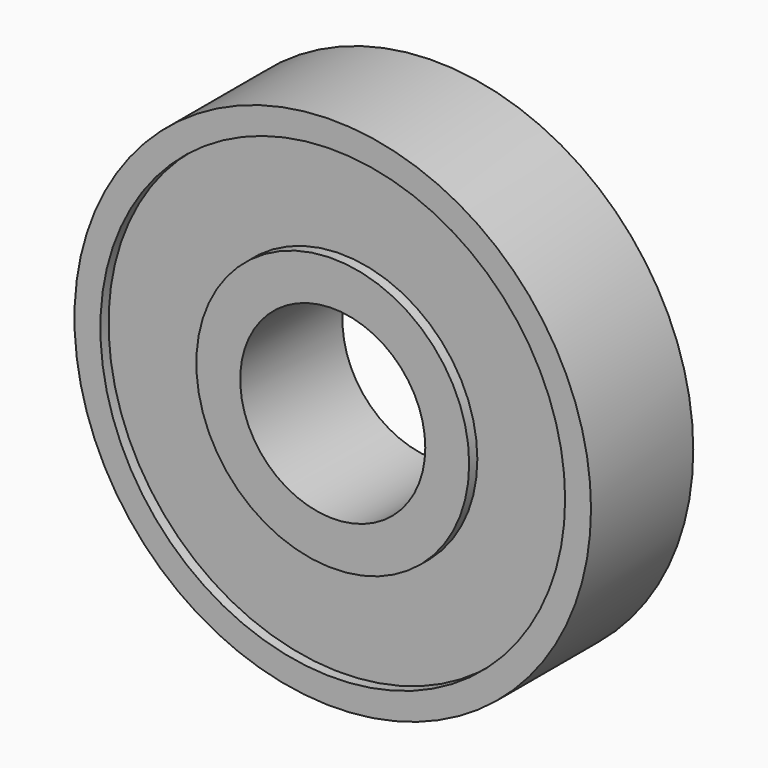
from build123d import *

# Parameters (mm, degrees)
F0_R     = 12.831842
F0_R_2   = 11.545421
F1_DEPTH = 6.35
F2_R     = 11.571254
F2_R_2   = 6.76949
F3_DEPTH = 5.842
F4_R     = 6.77814
F4_R_2   = 4.597615
F5_DEPTH = 6.35


with BuildPart() as f1:
    # F0 (on Front) → F1 (new body)
    with BuildSketch(Plane.XZ):
        Circle(F0_R)
        Circle(F0_R_2, mode=Mode.SUBTRACT)
    extrude(amount=F1_DEPTH)

    # F2 (on Front) → F3 (join)
    with BuildSketch(Plane.XZ):
        Circle(F2_R)
        Circle(F2_R_2, mode=Mode.SUBTRACT)
    extrude(amount=F3_DEPTH)

    # F4 (on Front) → F5 (join)
    with BuildSketch(Plane.XZ):
        Circle(F4_R)
        Circle(F4_R_2, mode=Mode.SUBTRACT)
    extrude(amount=F5_DEPTH)


solid = f1.part
